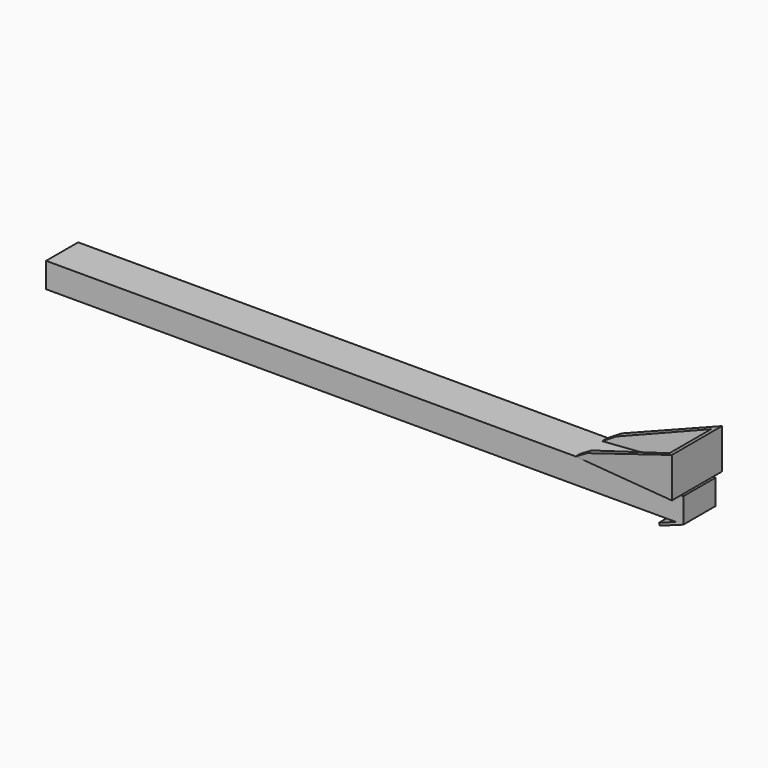
from build123d import *

# Parameters (mm, degrees)
F0_W      = 6464.3
F0_H      = 406.4
F1_DEPTH  = 254
F4_DEPTH  = 635
F6_DEPTH  = 406.401
F8_DEPTH  = 406.401
F10_W     = 254
F10_H     = 406.4
F11_DEPTH = 25.4


with BuildPart() as f1:
    # F0 (on Top) → F1 (new body)
    with BuildSketch(Plane.XY):
        with Locations((3232.15, 203.2)):
            Rectangle(F0_W, F0_H)
    extrude(amount=F1_DEPTH)

    # F3 (on offset) → F4 (join)
    with BuildSketch(Plane.XZ.offset(114.3)):
        Polygon((6438.9, 254), (6438.9, 660.4), (5499.1, 330.2), (5372.1, 254), align=None)
    extrude(amount=-F4_DEPTH)

    # F5 (on face) → F6 (cut, through all)
    with BuildSketch(Plane.XY.offset(254)):
        Polygon((5372.1, 520.7), (5372.1, 406.4), (6438.9, 520.7), align=None)
        Polygon((6438.9, -114.3), (5372.1, 0), (5372.1, -114.3), align=None)
    extrude(amount=F6_DEPTH, mode=Mode.SUBTRACT)

    # F7 (on face) → F8 (cut, through all)
    with BuildSketch(Plane.XY.offset(254)):
        Polygon((6380.6552886963, 456.4289748669), (5333.4875106812, 332.1360945702), (5333.4875106812, 68.0137723684), (6380.6552886963, -71.8156844378), align=None)
    extrude(amount=F8_DEPTH, mode=Mode.SUBTRACT)

    # F10 (on face) → F11 (join)
    with BuildSketch(Plane(origin=(756.179453173, 0, -2077.5859726483), x_dir=(0.9396926208, 0, 0.3420201433), z_dir=(-0.3420201433, 0, 0.9396926208))):
        with Locations((5947.4550085463, 203.2)):
            Rectangle(F10_W, F10_H)
    extrude(amount=F11_DEPTH)


solid = f1.part
